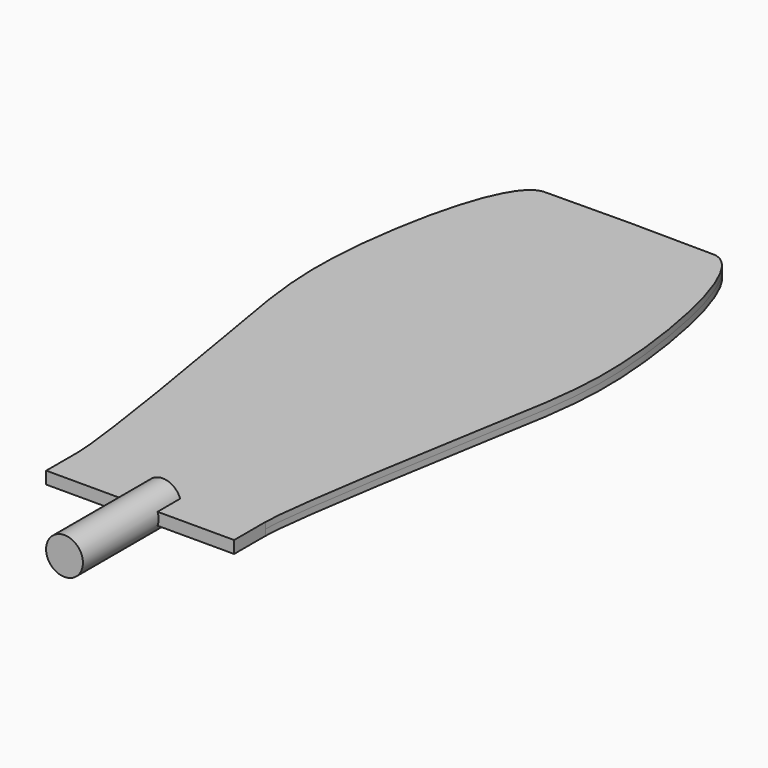
from build123d import *

# Parameters (mm, degrees)
F0_W     = 3
F0_H     = 4.5972731709
F0_H_2   = 15.4027268291
F2_DEPTH = 1


with BuildPart() as f1:
    # F0 (on Top) → F1 (revolve)
    with BuildSketch(Plane.XY):
        with Locations((1.5, 17.7013634145)):
            Rectangle(F0_W, F0_H)
        with Locations((1.5, 7.7013634145)):
            Rectangle(F0_W, F0_H_2)
    revolve(axis=Axis((0, 10, 0), (0, -1, 0)))

    # F0 (on Top) → F2 (join, symmetric)
    with BuildSketch(Plane.XY):
        with BuildLine():
            Line((-15.293511562, 15.4027268291), (0, 15.4027268291))
            Line((0, 15.4027268291), (0, 20))
            Line((0, 20), (3, 20))
            Line((3, 20), (3, 15.4027268291))
            Line((3, 15.4027268291), (15.293511562, 15.4027268291))
            Line((15.293511562, 15.4027268291), (15.293511562, 21.7934865505))
            add(Edge.make_bspline(
                [(15.293511562, 21.7934865505), (15.3114958093, 26.6520165048), (21.4737595411, 63.8554104581), (25.3872782552, 83.6366472522), (18.6823600411, 114.8716425409), (13.7054072693, 114.8677670956)],
                knots=[0, 0, 0, 0, 0.3674025375, 0.686010727, 1, 1, 1, 1], degree=3))
            Line((13.7054072693, 114.8677670956), (0, 115))
            Line((0, 115), (-13.7054072693, 114.8677670956))
            add(Edge.make_bspline(
                [(-15.293511562, 21.7934865505), (-15.3114958093, 26.6520165048), (-21.4737595411, 63.8554104581), (-25.3872782552, 83.6366472522), (-18.6823600411, 114.8716425409), (-13.7054072693, 114.8677670956)],
                knots=[0, 0, 0, 0, 0.3674025375, 0.686010727, 1, 1, 1, 1], degree=3))
            Line((-15.293511562, 21.7934865505), (-15.293511562, 15.4027268291))
        make_face()
        with Locations((1.5, 17.7013634145)):
            Rectangle(F0_W, F0_H)
    extrude(amount=F2_DEPTH, both=True)


solid = f1.part
